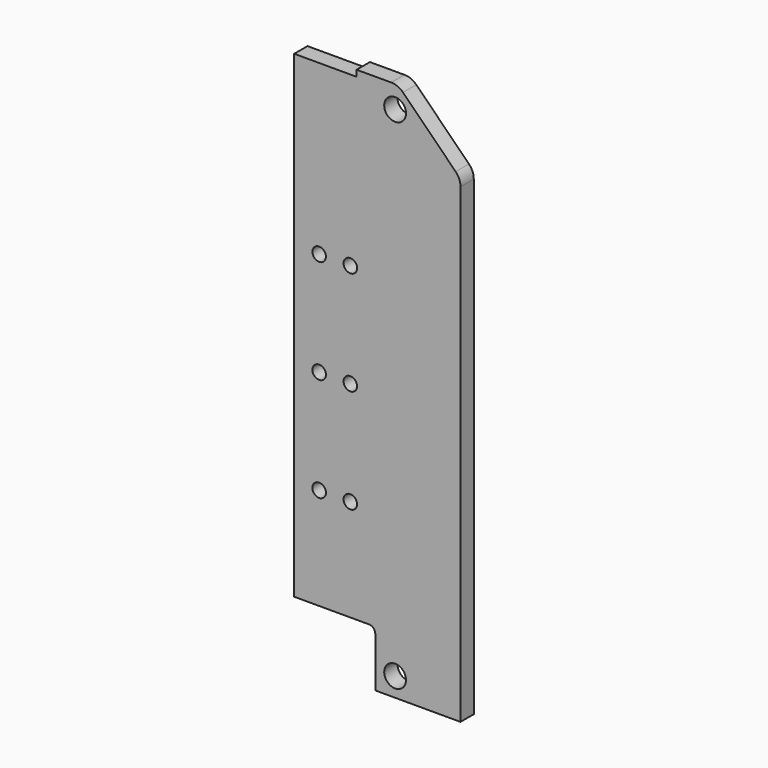
from build123d import *

# Parameters (mm, degrees)
F1_DEPTH = 8
F2_SIZE  = 30
F4_D     = 6.5
F6_D     = 10.5
F7_R     = 8
F8_R     = 3


with BuildPart() as f1:
    # F0 (on Front) → F1 (new body)
    with BuildSketch(Plane.XZ):
        Polygon((-41, 0), (0, 0), (0, 260), (-50, 260), (-50, 257), (-80, 257), (-80, 27), (-41, 27), align=None)
    extrude(amount=F1_DEPTH)

    # F2
    f2_edges = [f1.edges().sort_by_distance(p)[0] for p in [
        (0, -4, 260),
    ]]
    chamfer(f2_edges, length=F2_SIZE)

    # F4 (through all)
    with Locations(Plane.XZ.offset(8)):
        with Locations((-53, 176), (-68, 176), (-53, 126), (-68, 126), (-53, 76), (-68, 76)):
            Hole(F4_D / 2)

    # F6 (through all)
    with Locations(Plane.XZ.offset(8)):
        with Locations((-31.45, 249.2), (-31.45, 9.2)):
            Hole(F6_D / 2)

    # F7
    f7_edges = [f1.edges().sort_by_distance(p)[0] for p in [
        (-30, -4, 260),
        (0, -4, 230),
    ]]
    fillet(f7_edges, radius=F7_R)

    # F8
    f8_edges = [f1.edges().sort_by_distance(p)[0] for p in [
        (-41, -4, 27),
    ]]
    fillet(f8_edges, radius=F8_R)


solid = f1.part
